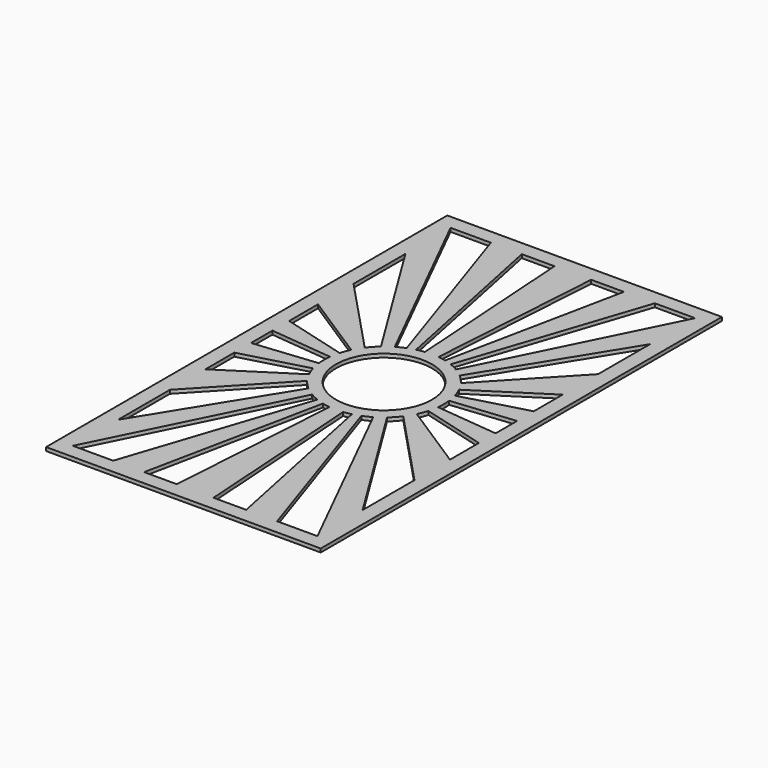
from build123d import *

# Parameters (mm, degrees)
F0_W     = 115
F0_H     = 210
F0_R     = 20.108519
F1_DEPTH = 1.5


with BuildPart() as f1:
    # F0 (on Top) → F1 (new body)
    with BuildSketch(Plane.XY):
        Rectangle(F0_W, F0_H)
        with BuildLine():
            Line((-51.202005, -98.838247), (-12.797066, -21.618334))
            ThreePointArc((-12.797066, -21.618334), (-11.038136, -22.567162), (-9.209351, -23.373171))
            Line((-9.209351, -23.373171), (-34.33051, -98.838247))
            Line((-34.33051, -98.838247), (-51.202005, -98.838247))
        make_face(mode=Mode.SUBTRACT)
        with BuildLine():
            Line((-21.377223, -98.838247), (-6.066496, -24.378574))
            ThreePointArc((-6.066496, -24.378574), (-4.466784, -24.721754), (-2.848126, -24.960077))
            Line((-2.848126, -24.960077), (-7.67663, -98.838247))
            Line((-7.67663, -98.838247), (-21.377223, -98.838247))
        make_face(mode=Mode.SUBTRACT)
        with BuildLine():
            ThreePointArc((-20.109431, -15.057491), (-18.389989, -17.115068), (-16.461037, -18.977659))
            Line((-16.461037, -18.977659), (-51.202005, -75.210557))
            Line((-51.202005, -75.210557), (-51.207021, -48.053044))
            Line((-51.207021, -48.053044), (-20.109431, -15.057491))
        make_face(mode=Mode.SUBTRACT)
        with BuildLine():
            ThreePointArc((-24.141339, -6.950756), (-23.441886, -9.033009), (-22.563215, -11.046202))
            Line((-22.563215, -11.046202), (-51.210452, -29.471497))
            Line((-51.210452, -29.471497), (-51.213243, -14.361147))
            Line((-51.213243, -14.361147), (-24.141339, -6.950756))
        make_face(mode=Mode.SUBTRACT)
        with BuildLine():
            Line((7.67663, -98.838247), (2.848126, -24.960077))
            ThreePointArc((2.848126, -24.960077), (4.466784, -24.721754), (6.066496, -24.378574))
            Line((6.066496, -24.378574), (21.377223, -98.838247))
            Line((21.377223, -98.838247), (7.67663, -98.838247))
        make_face(mode=Mode.SUBTRACT)
        with BuildLine():
            Line((34.33051, -98.838247), (9.209351, -23.373171))
            ThreePointArc((9.209351, -23.373171), (11.038136, -22.567162), (12.797066, -21.618334))
            Line((12.797066, -21.618334), (51.202005, -98.838247))
            Line((51.202005, -98.838247), (34.33051, -98.838247))
        make_face(mode=Mode.SUBTRACT)
        with BuildLine():
            Line((51.202005, -75.210557), (16.461037, -18.977659))
            ThreePointArc((16.461037, -18.977659), (18.389989, -17.115068), (20.109431, -15.057491))
            Line((20.109431, -15.057491), (51.207021, -48.053044))
            Line((51.207021, -48.053044), (51.202005, -75.210557))
        make_face(mode=Mode.SUBTRACT)
        with BuildLine():
            Line((51.210452, -29.471497), (22.563215, -11.046202))
            ThreePointArc((22.563215, -11.046202), (23.441886, -9.033009), (24.141339, -6.950756))
            Line((24.141339, -6.950756), (51.213243, -14.361147))
            Line((51.213243, -14.361147), (51.210452, -29.471497))
        make_face(mode=Mode.SUBTRACT)
        with BuildLine():
            ThreePointArc((-24.952535, 2.91346), (-25.122047, 0), (-24.952535, -2.91346))
            Line((-24.952535, -2.91346), (-51.213243, -5.612732))
            Line((-51.213243, -5.612732), (-51.213243, 5.612732))
            Line((-51.213243, 5.612732), (-24.952535, 2.91346))
        make_face(mode=Mode.SUBTRACT)
        with BuildLine():
            Line((-51.210452, 29.471497), (-22.563215, 11.046202))
            ThreePointArc((-22.563215, 11.046202), (-23.441886, 9.033009), (-24.141339, 6.950756))
            Line((-24.141339, 6.950756), (-51.213243, 14.361147))
            Line((-51.213243, 14.361147), (-51.210452, 29.471497))
        make_face(mode=Mode.SUBTRACT)
        with BuildLine():
            Line((-51.202005, 75.210557), (-16.461037, 18.977659))
            ThreePointArc((-16.461037, 18.977659), (-18.389989, 17.115068), (-20.109431, 15.057491))
            Line((-20.109431, 15.057491), (-51.207021, 48.053044))
            Line((-51.207021, 48.053044), (-51.202005, 75.210557))
        make_face(mode=Mode.SUBTRACT)
        with BuildLine():
            Line((-34.33051, 98.838247), (-9.209351, 23.373171))
            ThreePointArc((-9.209351, 23.373171), (-11.038136, 22.567162), (-12.797066, 21.618334))
            Line((-12.797066, 21.618334), (-51.202005, 98.838247))
            Line((-51.202005, 98.838247), (-34.33051, 98.838247))
        make_face(mode=Mode.SUBTRACT)
        with BuildLine():
            Line((-7.67663, 98.838247), (-2.848126, 24.960077))
            ThreePointArc((-2.848126, 24.960077), (-4.466784, 24.721754), (-6.066496, 24.378574))
            Line((-6.066496, 24.378574), (-21.377223, 98.838247))
            Line((-21.377223, 98.838247), (-7.67663, 98.838247))
        make_face(mode=Mode.SUBTRACT)
        Circle(F0_R, mode=Mode.SUBTRACT)
        with BuildLine():
            ThreePointArc((24.952535, -2.91346), (25.122047, 0), (24.952535, 2.91346))
            Line((24.952535, 2.91346), (51.213243, 5.612732))
            Line((51.213243, 5.612732), (51.213243, -5.612732))
            Line((51.213243, -5.612732), (24.952535, -2.91346))
        make_face(mode=Mode.SUBTRACT)
        with BuildLine():
            ThreePointArc((24.141339, 6.950756), (23.441886, 9.033009), (22.563215, 11.046202))
            Line((22.563215, 11.046202), (51.210452, 29.471497))
            Line((51.210452, 29.471497), (51.213243, 14.361147))
            Line((51.213243, 14.361147), (24.141339, 6.950756))
        make_face(mode=Mode.SUBTRACT)
        with BuildLine():
            ThreePointArc((20.109431, 15.057491), (18.389989, 17.115068), (16.461037, 18.977659))
            Line((16.461037, 18.977659), (51.202005, 75.210557))
            Line((51.202005, 75.210557), (51.207021, 48.053044))
            Line((51.207021, 48.053044), (20.109431, 15.057491))
        make_face(mode=Mode.SUBTRACT)
        with BuildLine():
            ThreePointArc((6.066496, 24.378574), (4.466784, 24.721754), (2.848126, 24.960077))
            Line((2.848126, 24.960077), (7.67663, 98.838247))
            Line((7.67663, 98.838247), (21.377223, 98.838247))
            Line((21.377223, 98.838247), (6.066496, 24.378574))
        make_face(mode=Mode.SUBTRACT)
        with BuildLine():
            ThreePointArc((12.797066, 21.618334), (11.038136, 22.567162), (9.209351, 23.373171))
            Line((9.209351, 23.373171), (34.33051, 98.838247))
            Line((34.33051, 98.838247), (51.202005, 98.838247))
            Line((51.202005, 98.838247), (12.797066, 21.618334))
        make_face(mode=Mode.SUBTRACT)
    extrude(amount=F1_DEPTH)


solid = f1.part
